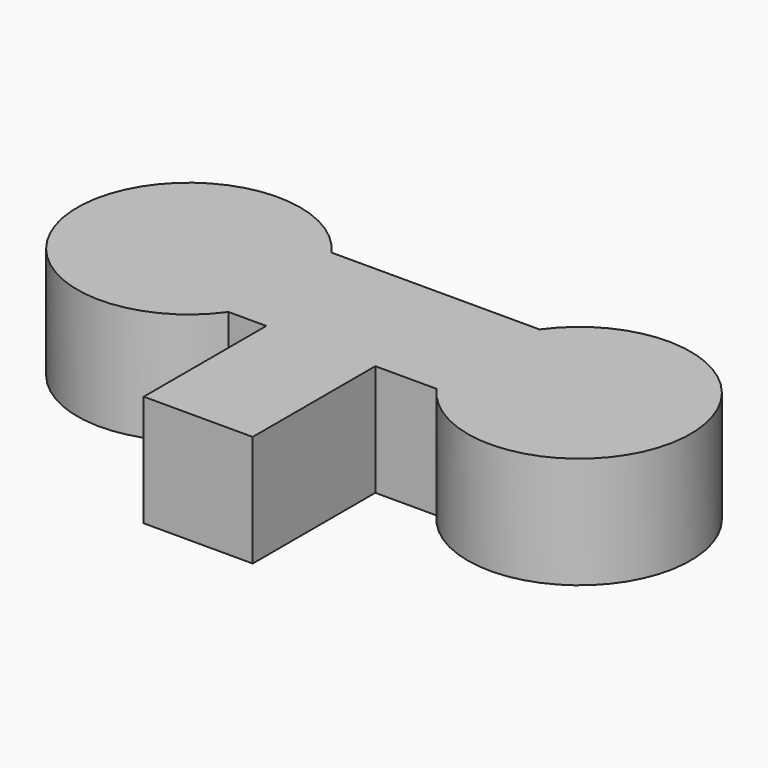
from build123d import *

# Parameters (mm, degrees)
F0_W     = 4.8873469356
F0_H     = 6.8713130732
F1_DEPTH = 5


with BuildPart() as f1:
    # F0 (on Top) → F1 (new body)
    with BuildSketch(Plane.XY):
        Polygon((-3.4519004795, 23.3021316447), (-3.4519004795, 17.5317614882), (-1.7539468208, 17.5317614882), (3.1334001148, 17.5317614882), (5.8841257515, 17.5317614882), (5.8841257515, 23.3021316447), align=None)
        with BuildLine():
            ThreePointArc((-3.4519004795, 23.3021316447), (-12.535490452, 20.4169465664), (-3.4519004795, 17.5317614882))
            Line((-3.4519004795, 17.5317614882), (-3.4519004795, 23.3021316447))
        make_face()
        with Locations((0.689726647, 14.0961049516)):
            Rectangle(F0_W, F0_H)
        with BuildLine():
            ThreePointArc((5.8841257515, 17.5317614882), (14.9677157241, 20.4169465664), (5.8841257515, 23.3021316447))
            Line((5.8841257515, 23.3021316447), (5.8841257515, 17.5317614882))
        make_face()
    extrude(amount=F1_DEPTH)


solid = f1.part
